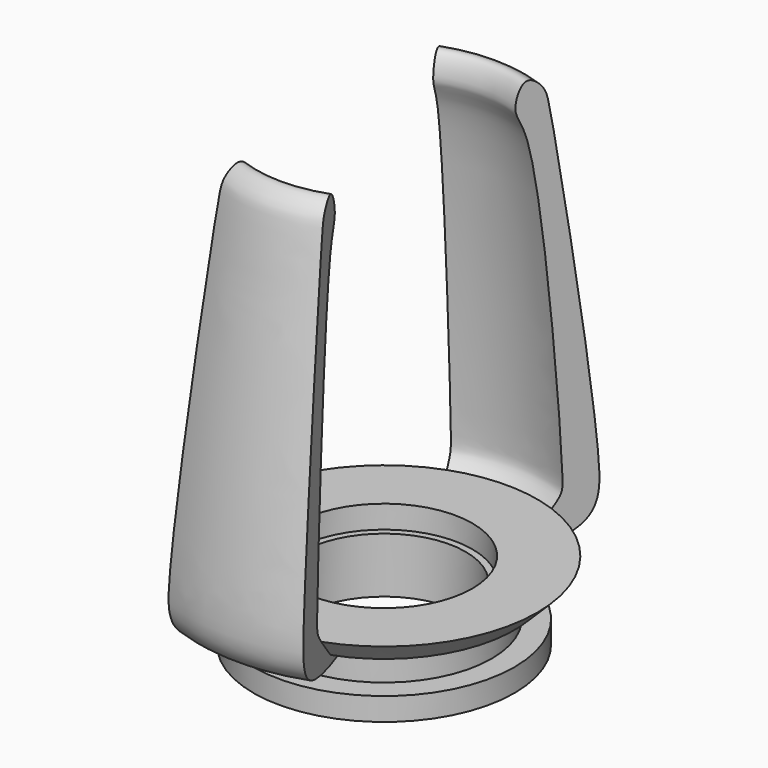
from build123d import *

# Parameters (mm, degrees)
F0_R          = 4
F0_R_2        = 2.5
F1_DEPTH      = 0.7
F2_R          = 3.3
F2_R_2        = 2.5
F3_DEPTH      = 1
F4_R          = 4
F4_R_2        = 2.7082847247
F5_DEPTH      = 0.7
F9_ANGLE_BACK = 20
F9_ANGLE      = 40


with BuildPart() as f1:
    # F0 (on Top) → F1 (new body)
    with BuildSketch(Plane.XY):
        Circle(F0_R)
        Circle(F0_R_2, mode=Mode.SUBTRACT)
    extrude(amount=F1_DEPTH)

    # F2 (on face) → F3 (join)
    with BuildSketch(Plane.XY.offset(0.7)):
        Circle(F2_R)
        Circle(F2_R_2, mode=Mode.SUBTRACT)
    extrude(amount=F3_DEPTH)

    # F4 (on face) → F5 (join)
    with BuildSketch(Plane.XY.offset(1.7)):
        Circle(F4_R)
        Circle(F4_R_2, mode=Mode.SUBTRACT)
    extrude(amount=F5_DEPTH)

    # F6 (on Right) → F7 (revolve)
    with BuildSketch(Plane.YZ):
        Polygon((-4, 1.7), (-4, 2.4), (-4.7, 2.4), align=None)
        Polygon((-3.3, 1.7), (-4, 1.7), (-3.3, 1.4059272362), align=None)
    revolve(axis=Axis((0, 0, 2.4), (0, 0, 1)))

    # F8 (on Right) → F9 (revolve)
    with BuildSketch(Plane.YZ, mode=Mode.PRIVATE) as f9_sk:
        with BuildLine():
            add(Edge.make_bspline(
                [(-3.3, 1.4059272362), (-6.0468855435, 1.441646311), (-6.2736891755, 2.9814417815), (-4.7089018779, 13.0197805627), (-4.5280783622, 13.8493191708), (-3.9012755567, 14.3429894387), (-3.5414669526, 13.2946596808), (-4.3496219383, 12.8327032699), (-5.097212262, 2.7888434187), (-4.9865280125, 2.7266615906), (-4.7, 2.4)],
                knots=[0, 0, 0, 0, 0.1500571493, 0.3998382837, 0.4758785019, 0.5317203727, 0.5995110586, 0.6784641499, 0.9265496454, 1, 1, 1, 1], degree=3))
            Line((-3.3, 1.4059272362), (-4, 1.7))
            Line((-4, 1.7), (-4.7, 2.4))
        make_face()
    revolve(f9_sk.sketch.rotate(Axis((0, 0, 2.4), (0, 0, 1)), -F9_ANGLE_BACK), axis=Axis((0, 0, 2.4), (0, 0, 1)), revolution_arc=F9_ANGLE)

    # F10: F1 across plane


with BuildPart() as f1_1:
    add(f1.part)
    add(f1.part.mirror(Plane.XZ))


solid = f1_1.part
